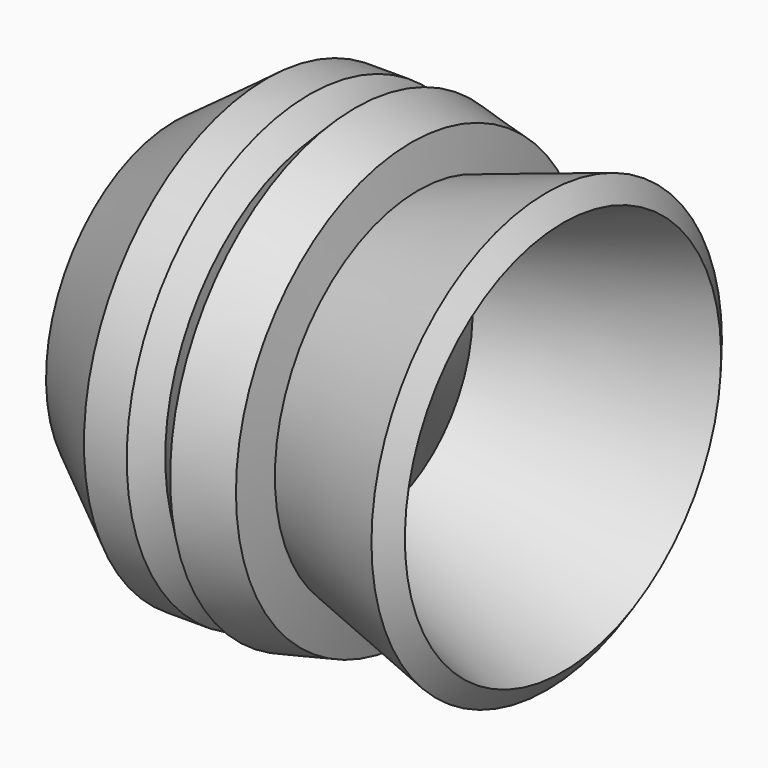
from build123d import *


with BuildPart() as f1:
    # F0 (on Front) → F1 (revolve)
    with BuildSketch(Plane.XZ):
        Polygon((-20.694755, 54.943115), (-32.936722, 54.943115), (-59.169509, 35.705738), (-30.896394, 24.629673), (-30.896394, 11.804755), (-14.282295, 11.804755), (-14.282295, -10.347377), (3.014203, -10.347377), (3.014203, 6.295834), (-4.080656, 27.25295), (51.882621, 46.198856), (47.219016, 52.31984), (10.493115, 40.952295), (8.452787, 52.31984), (-7.57836, 55.817542), (-14.573772, 48.822131), align=None)
    revolve(axis=Axis((-5.634046, 0, -10.347377), (-1, 0, 0)))


solid = f1.part
